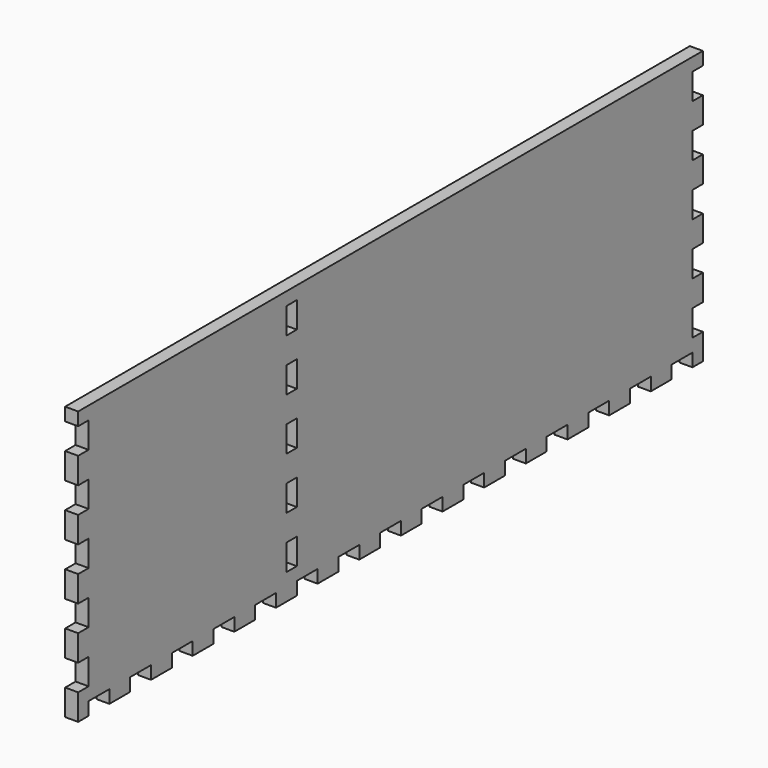
from build123d import *

# Parameters (mm, degrees)
SKETCH002_W             = 105
SKETCH002_H             = 300
PAD002_DEPTH            = 5
SKETCH028_W             = 10
SKETCH028_H             = 5
POCKET002_DEPTH         = 5
LINEARPATTERN008_COUNT  = 15
LINEARPATTERN008_PITCH  = 20
SKETCH124_W             = 10
SKETCH124_H             = 5
POCKET034_DEPTH         = 5
LINEARPATTERN076_COUNT  = 5
LINEARPATTERN076_PITCH  = 20
BODY002_PLACEMENT_ANGLE = 90


with BuildPart() as part:
    # Sketch002 → Pad002 (new body)
    with BuildSketch(Plane.XY):
        Rectangle(SKETCH002_W, SKETCH002_H)
    extrude(amount=PAD002_DEPTH)

    # Sketch028 (on DatumPlane) → Pocket002 (cut)
    with BuildSketch(Plane(origin=(-52.5, 0, 0), x_dir=(0, -1, 0), z_dir=(-1, 0, 0))):
        with Locations((-140, 2.5)):
            Rectangle(SKETCH028_W, SKETCH028_H)
    pocket002 = extrude(amount=-POCKET002_DEPTH, mode=Mode.SUBTRACT)

    # LinearPattern008: Pocket002 ×15
    with Locations(*[(0, -i * LINEARPATTERN008_PITCH, 0) for i in range(1, LINEARPATTERN008_COUNT)]):
        add(pocket002, mode=Mode.SUBTRACT)

    # Sketch124 (on DatumPlane) → Pocket034 (cut)
    with BuildSketch(Plane(origin=(0, 0, 0), x_dir=(-1, 0, 0), z_dir=(0, 0, -1))):
        with Locations((-42.5, 147.5)):
            Rectangle(SKETCH124_W, SKETCH124_H)
        with Locations((-42.5, -147.5)):
            Rectangle(SKETCH124_W, SKETCH124_H)
        with Locations((-42.5, -47.5)):
            Rectangle(SKETCH124_W, SKETCH124_H)
    pocket034 = extrude(amount=-POCKET034_DEPTH, mode=Mode.SUBTRACT)

    # LinearPattern076: Pocket034 ×5
    with Locations(*[(-i * LINEARPATTERN076_PITCH, 0, 0) for i in range(1, LINEARPATTERN076_COUNT)]):
        add(pocket034, mode=Mode.SUBTRACT)


with BuildPart() as part_1:
    # Body002 placement: moved
    add(part.part.moved(Location((255, 0, 52.5))).rotate(Axis((255, 0, 52.5), (0, -1, 0)), BODY002_PLACEMENT_ANGLE))


solid = part_1.part
